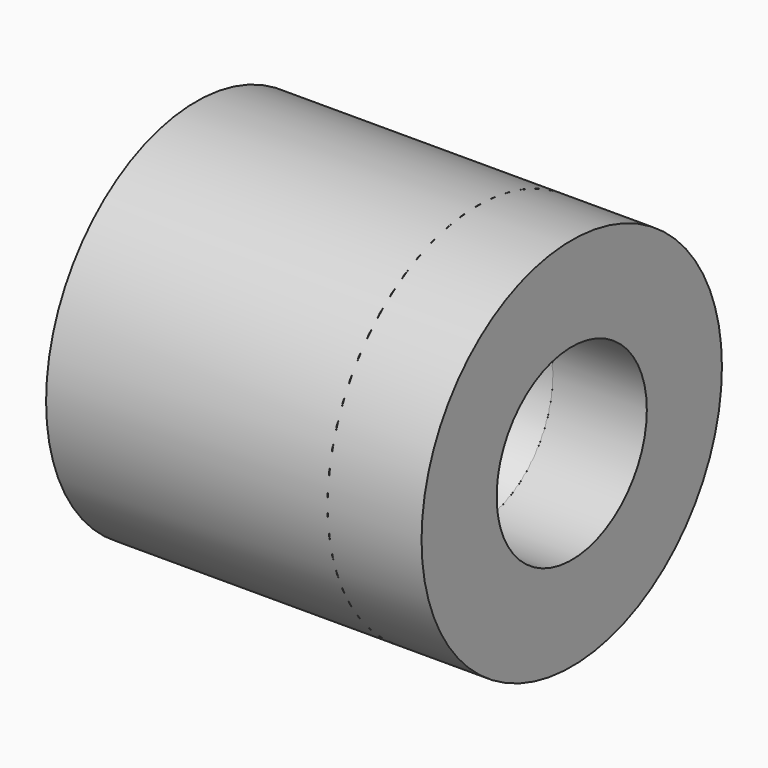
from build123d import *

# Parameters (mm, degrees)
SKETCH_R   = 500
SKETCH_R_2 = 250
PAD_DEPTH  = 500


with BuildPart() as body:
    # Sketch → Pad (new body, symmetric)
    with BuildSketch(Plane.YZ):
        Circle(SKETCH_R)
        Circle(SKETCH_R_2, mode=Mode.SUBTRACT)
    extrude(amount=PAD_DEPTH, both=True)


with BuildPart() as body001:
    # Sketch001 → Revolution (revolve)
    with BuildSketch(Plane.XZ):
        Polygon((250, 500), (-750, 0), (250, 250), align=None)
    revolve(axis=Axis((0, 0, 0), (1, 0, 0)))


solid = Compound([body.part, body001.part])
